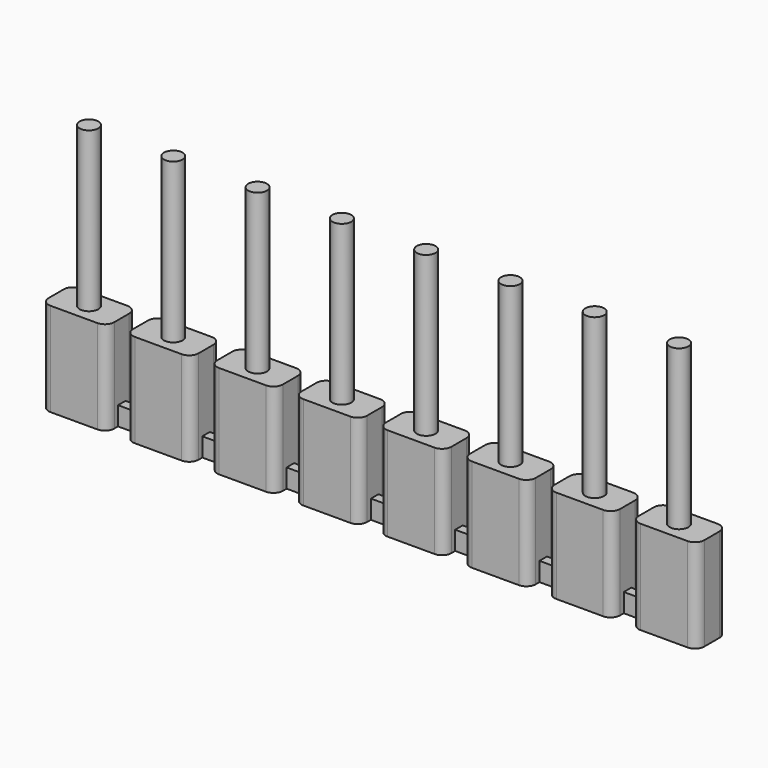
from build123d import *

# Parameters (mm, degrees)
F1_DEPTH = 10
F0_R     = 1
F2_START = -8
F0_W     = 2
F0_H     = 0.5
F0_H_2   = 1
F2_DEPTH = 2
F3_DEPTH = 17
F4_R     = 1


with BuildPart() as f1:
    # F0 (on Top) → F1 (new body)
    with BuildSketch(Plane.XY):
        Polygon((35, -2), (35, 2), (28, 2), (28, 0.5), (28, 0), (28, -0.5), (28, -2), align=None)
        with BuildLine():
            ThreePointArc((32.5, 0), (31.5, -1), (30.5, 0))
            ThreePointArc((30.5, 0), (31.5, 1), (32.5, 0))
        make_face(mode=Mode.SUBTRACT)
        with BuildLine():
            ThreePointArc((32.5, 0), (31.5, 1), (30.5, 0))
            ThreePointArc((30.5, 0), (31.5, -1), (32.5, 0))
        make_face()
    extrude(amount=-F1_DEPTH)



with BuildPart() as f1b:
    # F0 (on Top) → F1, piece 2 (new body)
    with BuildSketch(Plane.XY):
        Polygon((-28, 0.5), (-28, 2), (-35, 2), (-35, -2), (-28, -2), (-28, -0.5), align=None)
        with Locations((-31.5, 0)):
            Circle(F0_R, mode=Mode.SUBTRACT)
        with Locations((-31.5, 0)):
            Circle(F0_R)
    extrude(amount=-F1_DEPTH)


with BuildPart() as f1c:
    # F0 (on Top) → F1, piece 3 (new body)
    with BuildSketch(Plane.XY):
        with BuildLine():
            Line((19, -2), (26, -2))
            Line((26, -2), (26, -0.5))
            Line((26, -0.5), (26, 0))
            Line((26, 0), (23.5, 0))
            ThreePointArc((23.5, 0), (22.5, -1), (21.5, 0))
            Line((21.5, 0), (19, 0))
            Line((19, 0), (19, -0.5))
            Line((19, -0.5), (19, -2))
        make_face()
        with BuildLine():
            Line((26, 0.5), (26, 2))
            Line((26, 2), (19, 2))
            Line((19, 2), (19, 0.5))
            Line((19, 0.5), (19, 0))
            Line((19, 0), (21.5, 0))
            ThreePointArc((21.5, 0), (22.5, 1), (23.5, 0))
            Line((23.5, 0), (26, 0))
            Line((26, 0), (26, 0.5))
        make_face()
        with BuildLine():
            Line((22.5, 0), (23.5, 0))
            ThreePointArc((23.5, 0), (22.5, 1), (21.5, 0))
            Line((21.5, 0), (22.5, 0))
        make_face()
        with BuildLine():
            ThreePointArc((21.5, 0), (22.5, -1), (23.5, 0))
            Line((23.5, 0), (22.5, 0))
            Line((22.5, 0), (21.5, 0))
        make_face()
    extrude(amount=-F1_DEPTH)


with BuildPart() as f1d:
    # F0 (on Top) → F1, piece 4 (new body)
    with BuildSketch(Plane.XY):
        with BuildLine():
            Line((10, -2), (17, -2))
            Line((17, -2), (17, -0.5))
            Line((17, -0.5), (17, 0))
            Line((17, 0), (14.5, 0))
            ThreePointArc((14.5, 0), (13.5, -1), (12.5, 0))
            Line((12.5, 0), (10, 0))
            Line((10, 0), (10, -0.5))
            Line((10, -0.5), (10, -2))
        make_face()
        with BuildLine():
            Line((17, 0.5), (17, 2))
            Line((17, 2), (10, 2))
            Line((10, 2), (10, 0.5))
            Line((10, 0.5), (10, 0))
            Line((10, 0), (12.5, 0))
            ThreePointArc((12.5, 0), (13.5, 1), (14.5, 0))
            Line((14.5, 0), (17, 0))
            Line((17, 0), (17, 0.5))
        make_face()
        with BuildLine():
            Line((13.5, 0), (14.5, 0))
            ThreePointArc((14.5, 0), (13.5, 1), (12.5, 0))
            Line((12.5, 0), (13.5, 0))
        make_face()
        with BuildLine():
            ThreePointArc((12.5, 0), (13.5, -1), (14.5, 0))
            Line((14.5, 0), (13.5, 0))
            Line((13.5, 0), (12.5, 0))
        make_face()
    extrude(amount=-F1_DEPTH)


with BuildPart() as f1e:
    # F0 (on Top) → F1, piece 5 (new body)
    with BuildSketch(Plane.XY):
        Polygon((-19, 0.5), (-19, 2), (-26, 2), (-26, 0.5), (-26, -0.5), (-26, -2), (-19, -2), (-19, -0.5), align=None)
        with Locations((-22.5, 0)):
            Circle(F0_R, mode=Mode.SUBTRACT)
        with Locations((-22.5, 0)):
            Circle(F0_R)
    extrude(amount=-F1_DEPTH)


with BuildPart() as f1f:
    # F0 (on Top) → F1, piece 6 (new body)
    with BuildSketch(Plane.XY):
        Polygon((-10, 0.5), (-10, 2), (-17, 2), (-17, 0.5), (-17, -0.5), (-17, -2), (-10, -2), (-10, -0.5), align=None)
        with Locations((-13.5, 0)):
            Circle(F0_R, mode=Mode.SUBTRACT)
        with Locations((-13.5, 0)):
            Circle(F0_R)
    extrude(amount=-F1_DEPTH)


with BuildPart() as f1g:
    # F0 (on Top) → F1, piece 7 (new body)
    with BuildSketch(Plane.XY):
        with BuildLine():
            Line((8, 0.5), (8, 2))
            Line((8, 2), (1, 2))
            Line((1, 2), (1, 0.5))
            Line((1, 0.5), (1, 0))
            Line((1, 0), (3.5, 0))
            ThreePointArc((3.5, 0), (4.5, 1), (5.5, 0))
            Line((5.5, 0), (8, 0))
            Line((8, 0), (8, 0.5))
        make_face()
        with BuildLine():
            Line((1, -2), (8, -2))
            Line((8, -2), (8, -0.5))
            Line((8, -0.5), (8, 0))
            Line((8, 0), (5.5, 0))
            ThreePointArc((5.5, 0), (4.5, -1), (3.5, 0))
            Line((3.5, 0), (1, 0))
            Line((1, 0), (1, -0.5))
            Line((1, -0.5), (1, -2))
        make_face()
        with BuildLine():
            Line((4.5, 0), (5.5, 0))
            ThreePointArc((5.5, 0), (4.5, 1), (3.5, 0))
            Line((3.5, 0), (4.5, 0))
        make_face()
        with BuildLine():
            ThreePointArc((3.5, 0), (4.5, -1), (5.5, 0))
            Line((5.5, 0), (4.5, 0))
            Line((4.5, 0), (3.5, 0))
        make_face()
    extrude(amount=-F1_DEPTH)


with BuildPart() as f1h:
    # F0 (on Top) → F1, piece 8 (new body)
    with BuildSketch(Plane.XY):
        Polygon((-1, 0.5), (-1, 2), (-8, 2), (-8, 0.5), (-8, -0.5), (-8, -2), (-1, -2), (-1, -0.5), align=None)
        with Locations((-4.5, 0)):
            Circle(F0_R, mode=Mode.SUBTRACT)
        with Locations((-4.5, 0)):
            Circle(F0_R)
    extrude(amount=-F1_DEPTH)


with BuildPart() as f1_1:
    add(f1.part)

    add(f1b.part)  # F2 merges F1b

    add(f1c.part)  # F2 merges F1c

    add(f1d.part)  # F2 merges F1d

    add(f1e.part)  # F2 merges F1e

    add(f1f.part)  # F2 merges F1f

    add(f1g.part)  # F2 merges F1g

    add(f1h.part)  # F2 merges F1h
    # F0 (on Top) → F2 (join)
    with BuildSketch(Plane.XY.offset(F2_START)):
        with Locations((9, -0.25)):
            Rectangle(F0_W, F0_H)
        with Locations((9, 0.25)):
            Rectangle(F0_W, F0_H)
        with Locations((18, -0.25)):
            Rectangle(F0_W, F0_H)
        with Locations((18, 0.25)):
            Rectangle(F0_W, F0_H)
        with Locations((27, -0.25)):
            Rectangle(F0_W, F0_H)
        with Locations((27, 0.25)):
            Rectangle(F0_W, F0_H)
        Polygon((1, 0), (1, 0.5), (-1, 0.5), (-1, -0.5), (1, -0.5), align=None)
        with Locations((-9, 0)):
            Rectangle(F0_W, F0_H_2)
        with Locations((-18, 0)):
            Rectangle(F0_W, F0_H_2)
        with Locations((-27, 0)):
            Rectangle(F0_W, F0_H_2)
    extrude(amount=-F2_DEPTH)

    # F0 (on Top) → F3 (join)
    with BuildSketch(Plane.XY):
        with BuildLine():
            ThreePointArc((3.5, 0), (4.5, -1), (5.5, 0))
            Line((5.5, 0), (4.5, 0))
            Line((4.5, 0), (3.5, 0))
        make_face()
        with BuildLine():
            ThreePointArc((12.5, 0), (13.5, -1), (14.5, 0))
            Line((14.5, 0), (13.5, 0))
            Line((13.5, 0), (12.5, 0))
        make_face()
        with BuildLine():
            ThreePointArc((21.5, 0), (22.5, -1), (23.5, 0))
            Line((23.5, 0), (22.5, 0))
            Line((22.5, 0), (21.5, 0))
        make_face()
        with BuildLine():
            ThreePointArc((32.5, 0), (31.5, 1), (30.5, 0))
            ThreePointArc((30.5, 0), (31.5, -1), (32.5, 0))
        make_face()
        with BuildLine():
            Line((22.5, 0), (23.5, 0))
            ThreePointArc((23.5, 0), (22.5, 1), (21.5, 0))
            Line((21.5, 0), (22.5, 0))
        make_face()
        with BuildLine():
            Line((13.5, 0), (14.5, 0))
            ThreePointArc((14.5, 0), (13.5, 1), (12.5, 0))
            Line((12.5, 0), (13.5, 0))
        make_face()
        with BuildLine():
            Line((4.5, 0), (5.5, 0))
            ThreePointArc((5.5, 0), (4.5, 1), (3.5, 0))
            Line((3.5, 0), (4.5, 0))
        make_face()
        with Locations((-4.5, 0)):
            Circle(F0_R)
        with Locations((-13.5, 0)):
            Circle(F0_R)
        with Locations((-22.5, 0)):
            Circle(F0_R)
        with Locations((-31.5, 0)):
            Circle(F0_R)
    extrude(amount=F3_DEPTH)

    # F4
    f4_edges = [f1_1.edges().sort_by_distance(p)[0] for p in [
        (35, 2, -5),
        (28, 2, -5),
        (35, -2, -5),
        (26, 2, -5),
        (19, 2, -5),
        (17, 2, -5),
        (10, 2, -5),
        (8, 2, -5),
        (1, 2, -5),
        (-1, 2, -5),
        (-8, 2, -5),
        (-10, 2, -5),
        (-17, 2, -5),
        (-19, 2, -5),
        (-26, 2, -5),
        (-28, 2, -5),
        (-35, 2, -5),
        (28, -2, -5),
        (26, -2, -5),
        (19, -2, -5),
        (17, -2, -5),
        (10, -2, -5),
        (8, -2, -5),
        (1, -2, -5),
        (-1, -2, -5),
        (-8, -2, -5),
        (-10, -2, -5),
        (-17, -2, -5),
        (-19, -2, -5),
        (-26, -2, -5),
        (-28, -2, -5),
        (-35, -2, -5),
    ]]
    fillet(f4_edges, radius=F4_R)


solid = f1_1.part
